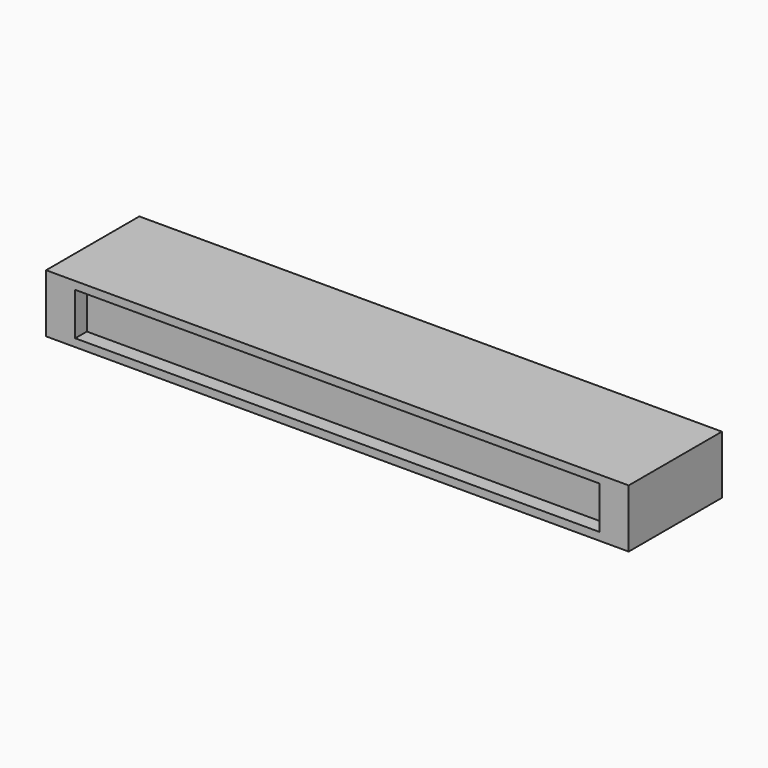
from build123d import *

# Parameters (mm, degrees)
F0_W     = 127
F0_H     = 12.7
F1_DEPTH = 25.4
F2_R     = 3.9243
F3_DEPTH = 6.35
F4_W     = 114.3
F4_H     = 9.2964
F5_DEPTH = 3.175


with BuildPart() as f1:
    # F0 (on Front) → F1 (new body)
    with BuildSketch(Plane.XZ):
        Rectangle(F0_W, F0_H)
    extrude(amount=F1_DEPTH)

    # F2 (on face) → F3 (cut)
    with BuildSketch(Plane(origin=(0, 0, 0), x_dir=(-1, 0, 0), z_dir=(0, 1, 0))):
        with Locations((40.321597, 0)):
            Circle(F2_R)
        with Locations((-52.069283, 0)):
            Circle(F2_R)
        with Locations((-40.520423, 0)):
            Circle(F2_R)
        with Locations((-28.971563, 0)):
            Circle(F2_R)
        with Locations((-17.422703, 0)):
            Circle(F2_R)
        with Locations((-5.873843, 0)):
            Circle(F2_R)
        with Locations((5.675017, 0)):
            Circle(F2_R)
        with Locations((17.223877, 0)):
            Circle(F2_R)
        with Locations((28.772737, 0)):
            Circle(F2_R)
        with Locations((40.321597, 0)):
            Circle(F2_R)
        with Locations((51.870457, 0)):
            Circle(F2_R)
    extrude(amount=-F3_DEPTH, mode=Mode.SUBTRACT)

    # F4 (on face) → F5 (cut)
    with BuildSketch(Plane.XZ.offset(25.4)):
        Rectangle(F4_W, F4_H)
    extrude(amount=-F5_DEPTH, mode=Mode.SUBTRACT)


solid = f1.part
